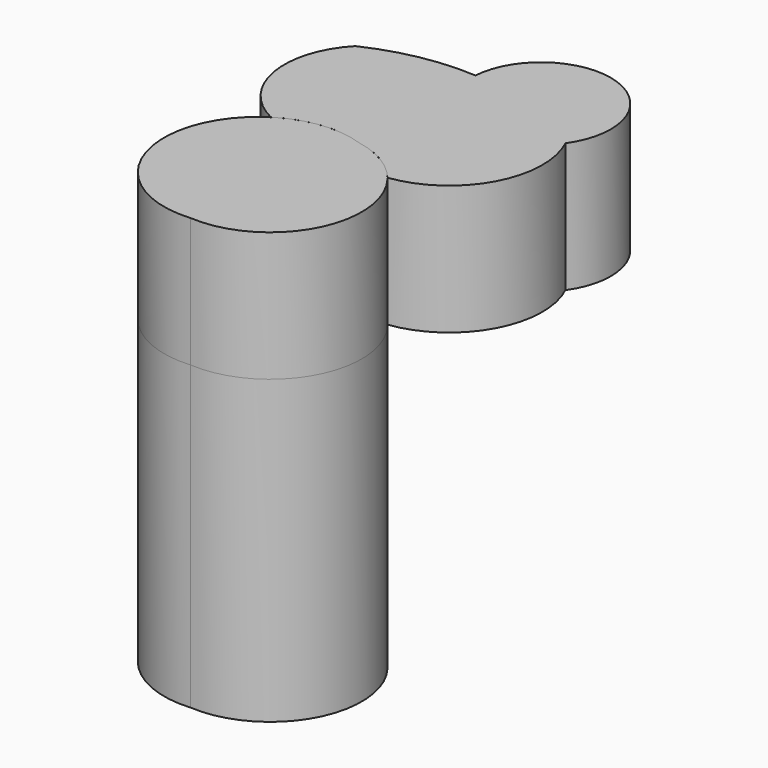
from build123d import *

# Parameters (mm, degrees)
F1_DEPTH = 112.522
F3_DEPTH = 48.26
F4_DEPTH = 48.26


with BuildPart() as f1:
    # F0 (on Top) → F1 (new body)
    with BuildSketch(Plane.XY):
        with BuildLine():
            ThreePointArc((-177.939728, 81.324257), (-223.989874, 52.7299), (-186.520085, 13.560166))
            ThreePointArc((-186.520085, 13.560166), (-150.242543, 43.391939), (-177.939728, 81.324257))
        make_face()
    extrude(amount=F1_DEPTH)


with BuildPart() as f3:
    # F2 (on face) → F3 (new body)
    with BuildSketch(Plane.XY.offset(112.522)):
        with BuildLine():
            ThreePointArc((-177.939728, 135.642707), (-197.8688, 134.396175), (-216.860801, 128.229678))
            ThreePointArc((-216.860801, 128.229678), (-225.24105, 100.789456), (-208.002408, 77.854252))
            ThreePointArc((-208.002408, 77.854252), (-193.36672, 83.01702), (-177.939728, 81.324257))
            ThreePointArc((-177.939728, 81.324257), (-166.706672, 77.098805), (-157.624315, 69.253629))
            ThreePointArc((-157.624315, 69.253629), (-131.644741, 87.119177), (-130.759016, 118.63634))
            ThreePointArc((-130.759016, 118.63634), (-143.137888, 158.243508), (-177.939728, 135.642707))
        make_face()
    extrude(amount=F3_DEPTH)


with BuildPart() as f4:
    # F1_face (on face) → F4 (new body)
    with BuildSketch(Plane(origin=(-187.218668, 48.073893, 112.522), x_dir=(1, 0, 0), z_dir=(0, 0, 1))):
        with BuildLine():
            ThreePointArc((0.698583, -34.513728), (36.976125, -4.681954), (9.27894, 33.250364))
            ThreePointArc((9.27894, 33.250364), (-36.771206, 4.656007), (0.698583, -34.513728))
        make_face()
    extrude(amount=F4_DEPTH)


solid = Compound([f1.part, f3.part, f4.part])
